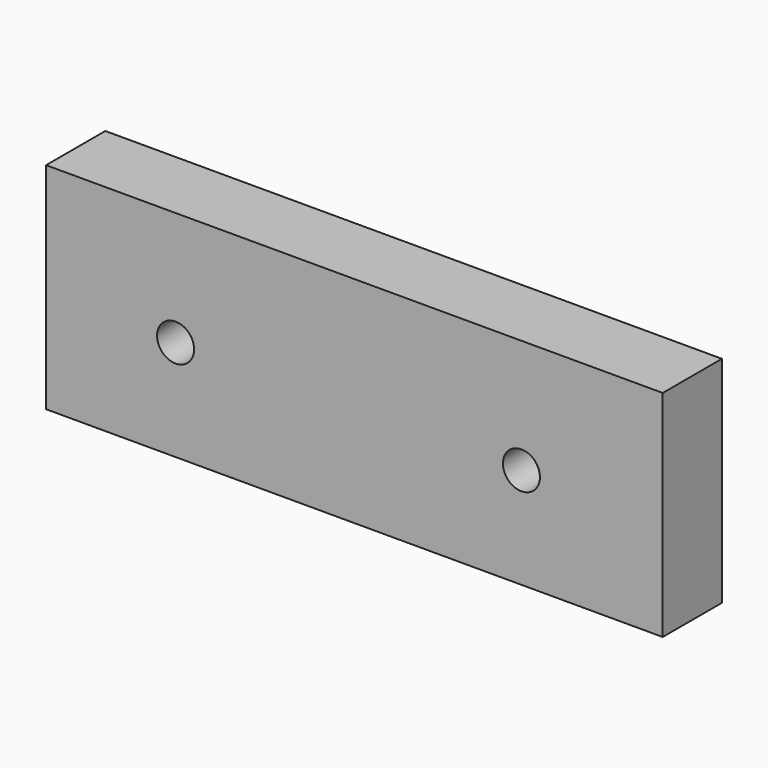
from build123d import *

# Parameters (mm, degrees)
F0_W     = 99.988638
F0_H     = 34.840912
F1_DEPTH = 12
F2_R     = 3
F3_DEPTH = 75


with BuildPart() as f1:
    # F0 (on Front) → F1 (new body)
    with BuildSketch(Plane.XZ):
        with Locations((0.954544, 1.073864)):
            Rectangle(F0_W, F0_H)
    extrude(amount=F1_DEPTH)

    # F2 (on face) → F3 (cut)
    with BuildSketch(Plane(origin=(0, 0, 0), x_dir=(-1, 0, 0), z_dir=(0, 1, 0))):
        with Locations((-28.039774, 0)):
            Circle(F2_R)
        with Locations((28.039774, 0)):
            Circle(F2_R)
    extrude(amount=-F3_DEPTH, mode=Mode.SUBTRACT)


solid = f1.part
